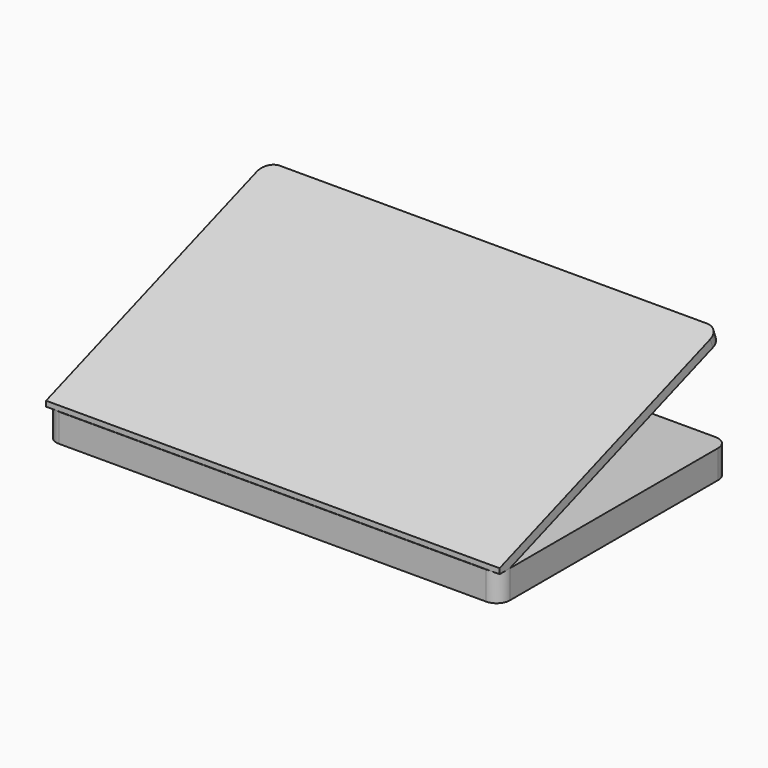
from build123d import *

# Parameters (mm, degrees)
F0_W     = 24.087439
F0_H     = 15.245215
F1_DEPTH = 1.5
F2_R     = 0.7
F4_DEPTH = 24.1
F5_R     = 0.7


with BuildPart() as f1:
    # F0 (on Top) → F1 (new body)
    with BuildSketch(Plane.XY):
        with Locations((-20.276139, 22.81383)):
            Rectangle(F0_W, F0_H)
    extrude(amount=F1_DEPTH)

    # F2
    f2_edges = [f1.edges().sort_by_distance(p)[0] for p in [
        (-32.319859, 30.436438, 0.75),
        (-32.319859, 15.191223, 0.75),
        (-8.23242, 30.436438, 0.75),
        (-8.23242, 15.191223, 0.75),
    ]]
    fillet(f2_edges, radius=F2_R)

    # F3 (on face) → F4 (join)
    with BuildSketch(Plane.YZ.offset(-8.23242)):
        Polygon((15.211802, 1.5), (15.891223, 1.5), (30.032871, 6.57918), (29.865546, 7.045054), (15.211802, 1.781947), align=None)
    extrude(amount=-F4_DEPTH)

    # F5
    f5_edges = [f1.edges().sort_by_distance(p)[0] for p in [
        (-32.33242, 29.949209, 6.812117),
        (-8.23242, 29.949209, 6.812117),
    ]]
    fillet(f5_edges, radius=F5_R)


solid = f1.part
